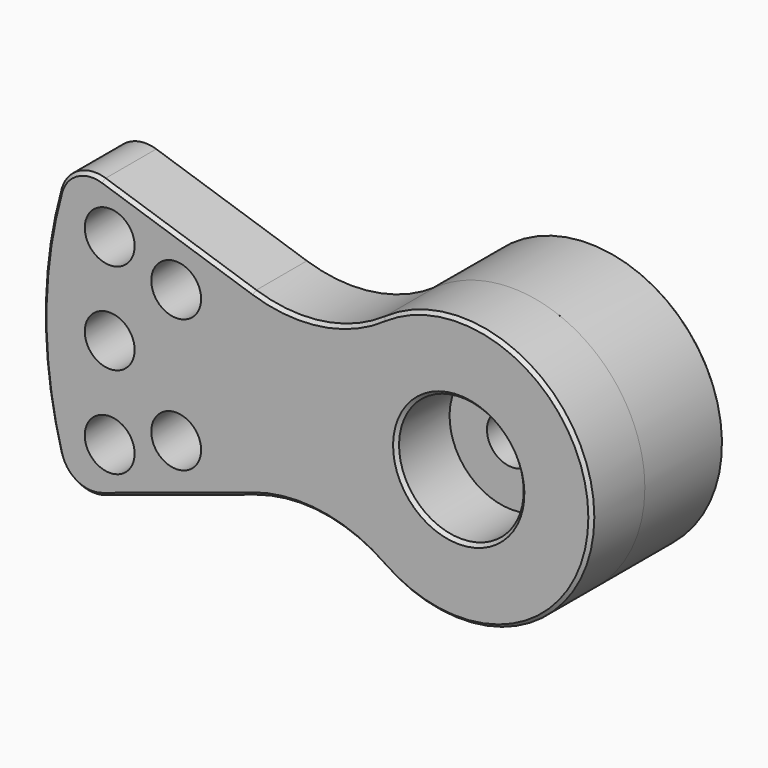
from build123d import *

# Parameters (mm, degrees)
SKETCH123_R             = 1.5
PAD066_DEPTH            = 4
SKETCH124_R             = 8
PAD067_DEPTH            = 10
SKETCH125_R             = 3
POCKET049_DEPTH         = 3.2
SKETCH126_R             = 1.5
POCKET050_DEPTH         = 10.001
SKETCH127_R             = 3.75
POCKET051_DEPTH         = 4
CHAMFER040_SIZE         = 0.2
CHAMFER041_SIZE         = 0.2
BODY057_PITCH_ANGLE     = 90
BODY057_PLACEMENT_ANGLE = -7e-06


with BuildPart() as part:
    # Sketch123 → Pad066 (new body)
    with BuildSketch(Plane.XZ):
        with BuildLine():
            ThreePointArc((6.561614, -4.576596), (0, 8), (-6.561614, -4.576596))
            ThreePointArc((-5.421277, -12.335191), (-5.076788, -8.32146), (-6.561614, -4.576596))
            Line((-8.39651, -21.399131), (-5.421277, -12.335191))
            ThreePointArc((-8.39651, -21.399131), (-8.255005, -23.024324), (-6.98233, -24.044901))
            ThreePointArc((-6.98233, -24.044901), (0, -25), (6.98233, -24.044901))
            ThreePointArc((6.98233, -24.044901), (8.255005, -23.024324), (8.39651, -21.399131))
            Line((8.39651, -21.399131), (5.421277, -12.335191))
            ThreePointArc((6.561614, -4.576596), (5.076788, -8.32146), (5.421277, -12.335191))
        make_face()
        with Locations((-5.5, -21)):
            Circle(SKETCH123_R, mode=Mode.SUBTRACT)
        with Locations((0, -21)):
            Circle(SKETCH123_R, mode=Mode.SUBTRACT)
        with Locations((5.5, -21)):
            Circle(SKETCH123_R, mode=Mode.SUBTRACT)
        with Locations((-4, -17)):
            Circle(SKETCH123_R, mode=Mode.SUBTRACT)
        with Locations((4, -17)):
            Circle(SKETCH123_R, mode=Mode.SUBTRACT)
    extrude(amount=-PAD066_DEPTH)

    # Sketch124 → Pad067 (join)
    with BuildSketch(Plane.XZ):
        Circle(SKETCH124_R)
    extrude(amount=-PAD067_DEPTH)

    # Sketch125 (on Face16 of Pad067) → Pocket049 (cut)
    with BuildSketch(Plane(origin=(0, 10, 0), x_dir=(1, 0, 0), z_dir=(0, 1, 0))):
        Circle(SKETCH125_R)
    extrude(amount=-POCKET049_DEPTH, mode=Mode.SUBTRACT)

    # Sketch126 → Pocket050 (cut, through all)
    with BuildSketch(Plane.XZ):
        Circle(SKETCH126_R)
    extrude(amount=-POCKET050_DEPTH, mode=Mode.SUBTRACT)

    # Sketch127 → Pocket051 (cut)
    with BuildSketch(Plane.XZ):
        Circle(SKETCH127_R)
    extrude(amount=-POCKET051_DEPTH, mode=Mode.SUBTRACT)

    # Chamfer040
    chamfer040_edges = [part.edges().sort_by_distance(p)[0] for p in [
        (-3.75, 0, 0),
        (5.076788, 0, -8.32146),
    ]]
    chamfer(chamfer040_edges, length=CHAMFER040_SIZE)

    # Chamfer041
    chamfer041_edges = [part.edges().sort_by_distance(p)[0] for p in [
        (-8, 10, 0),
    ]]
    chamfer(chamfer041_edges, length=CHAMFER041_SIZE)


with BuildPart() as part_1:
    # Body057 pitch: moved
    add(part.part.rotate(Axis((0, 0, 0), (0, 1, 0)), BODY057_PITCH_ANGLE))


with BuildPart() as part_2:
    # Body057 placement: moved
    add(part_1.part.moved(Location((-1.1e-05, -4.800013, -1.5e-05))).rotate(Axis((-1.1e-05, -4.800013, -1.5e-05), (0, 0, 1)), BODY057_PLACEMENT_ANGLE))


solid = part_2.part
